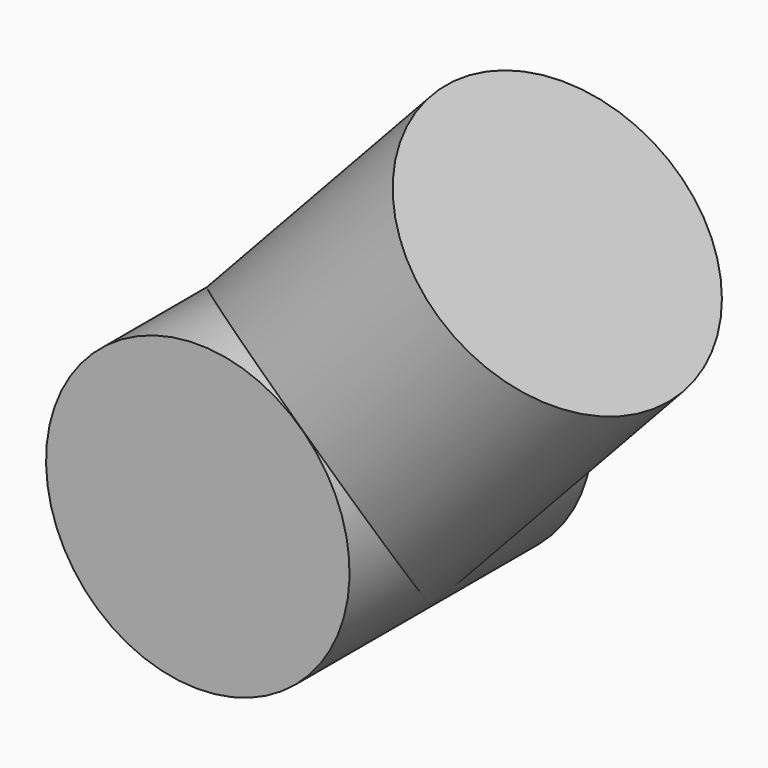
from build123d import *

# Parameters (mm, degrees)
CYLINDER066_R             = 13.9827
CYLINDER066_DEPTH         = 28.0162
CYLINDER065_R             = 13.9827
CYLINDER065_DEPTH         = 32.1945
FUSION025_PLACEMENT_ANGLE = 42.9


with BuildPart() as cylinder066:
    # Cylinder066 → Cylinder066 (new body)
    with BuildSketch(Plane.XZ.offset(-14.0081)):
        Circle(CYLINDER066_R)
    extrude(amount=CYLINDER066_DEPTH)


with BuildPart() as rear_inner_slip_r:
    # Cylinder065 → Cylinder065 (new body)
    with BuildSketch(Plane.XY):
        Circle(CYLINDER065_R)
    extrude(amount=CYLINDER065_DEPTH)

    # Fusion025: union Cylinder066
    add(cylinder066.part)


with BuildPart() as rear_inner_slip_r_1:
    # Fusion025 placement: moved
    add(rear_inner_slip_r.part.moved(Location((-452, 187, -18))).rotate(Axis((-452, 187, -18), (0, 1, 0)), FUSION025_PLACEMENT_ANGLE))


solid = rear_inner_slip_r_1.part
